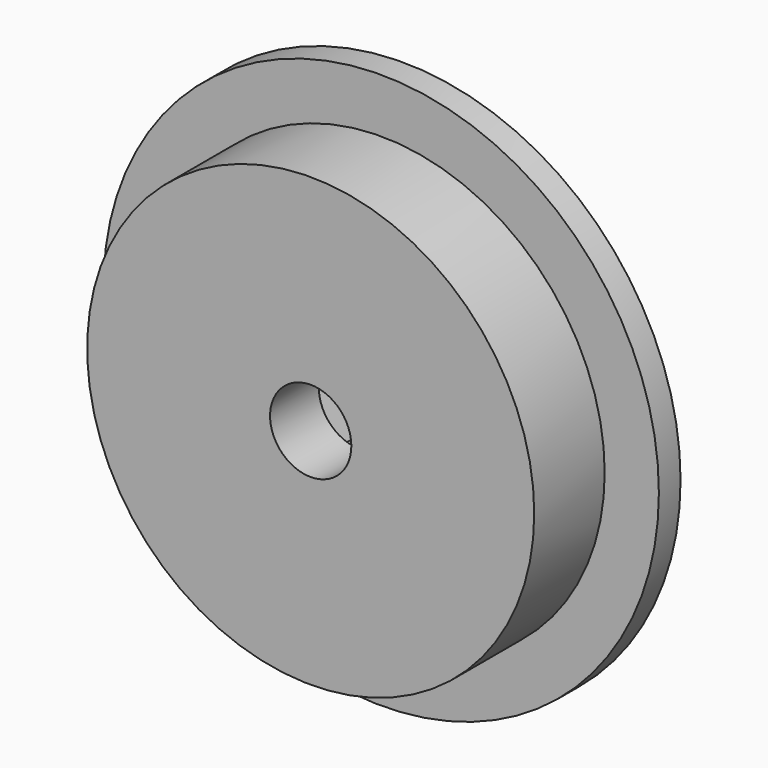
from build123d import *

# Parameters (mm, degrees)
F0_R     = 41
F0_R_2   = 33
F2_DEPTH = 4
F1_R     = 33
F1_R_2   = 6
F3_DEPTH = 17
F4_R     = 6
F5_DEPTH = 8


with BuildPart() as f2:
    # F0 (on Front) → F2 (new body)
    with BuildSketch(Plane.XZ):
        Circle(F0_R)
        Circle(F0_R_2, mode=Mode.SUBTRACT)
    extrude(amount=F2_DEPTH)

    # F1 (on Front) → F3 (join)
    with BuildSketch(Plane.XZ):
        Circle(F1_R)
        Circle(F1_R_2, mode=Mode.SUBTRACT)
    extrude(amount=F3_DEPTH)

    # F4 (on Front) → F5 (cut)
    with BuildSketch(Plane.XZ):
        Polygon((-10.952806, 0.607765), (-6.002742, -9.181526), (4.950063, -9.78929), (10.952806, -0.607765), (6.002742, 9.181526), (-4.950063, 9.78929), align=None)
        Circle(F4_R, mode=Mode.SUBTRACT)
    extrude(amount=F5_DEPTH, mode=Mode.SUBTRACT)


solid = f2.part
